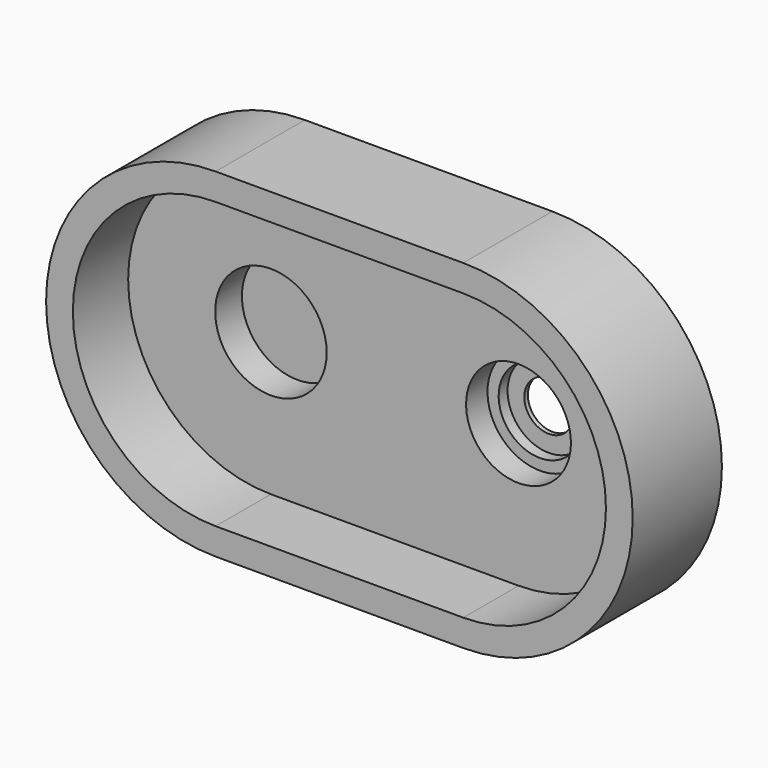
from build123d import *

# Parameters (mm, degrees)
F3_DEPTH = 50
F2_R     = 25
F4_DEPTH = 15
F5_DEPTH = 35
F6_DEPTH = 35


with BuildPart() as f3:
    # F0 (on Front) → F3 (new body)
    with BuildSketch(Plane.XZ):
        with BuildLine():
            Line((0, 76), (-111, 76))
            ThreePointArc((-111, 76), (-187, 0), (-111, -76))
            Line((-111, -76), (0, -76))
            ThreePointArc((0, -76), (76, 0), (0, 76))
        make_face()
    extrude(amount=F3_DEPTH)

    # F2 (on offset) → F4 (cut)
    with BuildSketch(Plane.XZ.offset(19)):
        with Locations((-111, 0)):
            Circle(F2_R)
    extrude(amount=-F4_DEPTH, mode=Mode.SUBTRACT)

    # F2 (on offset) → F5 (cut)
    with BuildSketch(Plane.XZ.offset(19)):
        with Locations((-111, 0)):
            Circle(F2_R)
    extrude(amount=F5_DEPTH, mode=Mode.SUBTRACT)

    # F2 (on offset) → F6 (cut)
    with BuildSketch(Plane.XZ.offset(19)):
        with BuildLine():
            Line((0, 64), (-111, 64))
            ThreePointArc((-111, 64), (-175, 0), (-111, -64))
            Line((-111, -64), (0, -64))
            ThreePointArc((0, -64), (64, 0), (0, 64))
        make_face()
        with Locations((-111, 0)):
            Circle(F2_R, mode=Mode.SUBTRACT)
    extrude(amount=F6_DEPTH, mode=Mode.SUBTRACT)

    # F7 (on Right) → F8 (revolve, cut)
    with BuildSketch(Plane.YZ):
        Polygon((0, 11), (-2, 11), (-2, 18.5), (-7, 18.5), (-7, 23.5), (-19, 23.5), (-19, 0), (0, 0), align=None)
    revolve(axis=Axis((0, 0, 0), (0, 1, 0)), mode=Mode.SUBTRACT)


solid = f3.part
